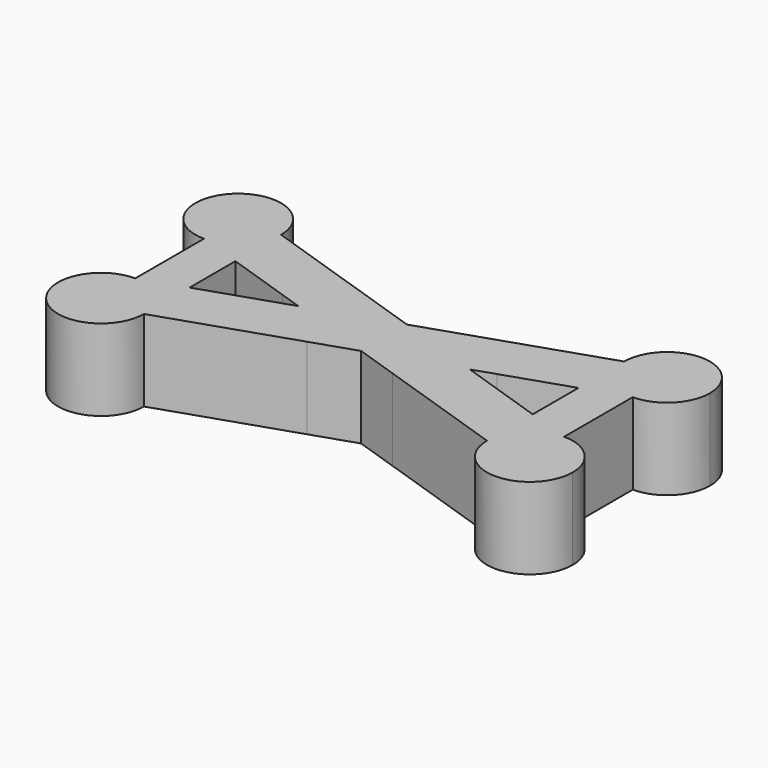
from build123d import *

# Parameters (mm, degrees)
F1_DEPTH = 19
F3_DEPTH = 10


with BuildPart() as f1:
    # F0 (on Top) → F1 (new body)
    with BuildSketch(Plane.XY):
        with BuildLine():
            Line((-50, 20), (-40, 20))
            ThreePointArc((-40, 20), (-57.0710678119, 27.0710678119), (-50, 10))
            Line((-50, 10), (-50, 20))
        make_face()
        with BuildLine():
            ThreePointArc((60, 20), (50, 30), (40, 20))
            Line((40, 20), (50, 20))
            Line((50, 20), (50, 10))
            ThreePointArc((50, 10), (57.0710678119, 12.9289321881), (60, 20))
        make_face()
        with BuildLine():
            Line((-50, -20), (-50, -10))
            ThreePointArc((-50, -10), (-57.0710678119, -27.0710678119), (-40, -20))
            Line((-40, -20), (-50, -20))
        make_face()
        with BuildLine():
            Line((50, -20), (40, -20))
            ThreePointArc((40, -20), (50, -30), (60, -20))
            ThreePointArc((60, -20), (57.0710678119, -12.9289321881), (50, -10))
            Line((50, -10), (50, -20))
        make_face()
        Polygon((50, -10), (40, -20), (50, -20), align=None)
        with BuildLine():
            ThreePointArc((50, -10), (42.9289321881, -12.9289321881), (40, -20))
            Line((40, -20), (50, -10))
        make_face()
        Polygon((50, 20), (40, 20), (50, 10), align=None)
        with BuildLine():
            Line((50, 10), (40, 20))
            ThreePointArc((40, 20), (42.9289321881, 12.9289321881), (50, 10))
        make_face()
        with BuildLine():
            ThreePointArc((-50, 10), (-42.9289321881, 12.9289321881), (-40, 20))
            Line((-40, 20), (-50, 20))
            Line((-50, 20), (-50, 10))
        make_face()
        with BuildLine():
            ThreePointArc((-40, -20), (-42.9289321881, -12.9289321881), (-50, -10))
            Line((-50, -10), (-50, -20))
            Line((-50, -20), (-40, -20))
        make_face()
        Polygon((-40, 0), (-40, 6.6666666667), (-50, 10), (-50, 0), align=None)
        Polygon((-40, -6.6666666667), (-40, 0), (-50, 0), (-50, -10), align=None)
        with BuildLine():
            Line((-40, 6.6666666667), (-40, 20))
            ThreePointArc((-40, 20), (-42.9289321881, 12.9289321881), (-50, 10))
            Line((-50, 10), (-40, 6.6666666667))
        make_face()
        with BuildLine():
            Line((-40, -20), (-40, -6.6666666667))
            Line((-40, -6.6666666667), (-50, -10))
            ThreePointArc((-50, -10), (-42.9289321881, -12.9289321881), (-40, -20))
        make_face()
        with BuildLine():
            ThreePointArc((50, 10), (42.9289321881, 12.9289321881), (40, 20))
            Line((40, 20), (40, 6.6666666667))
            Line((40, 6.6666666667), (50, 10))
        make_face()
        with BuildLine():
            Line((50, -10), (40, -6.6666666667))
            Line((40, -6.6666666667), (40, -20))
            ThreePointArc((40, -20), (42.9289321881, -12.9289321881), (50, -10))
        make_face()
        Polygon((50, 0), (40, 0), (40, -6.6666666667), (50, -10), align=None)
        Polygon((50, 0), (50, 10), (40, 6.6666666667), (40, 0), align=None)
        Polygon((-25, 1.6666666667), (-25, 10), (-10, 10), (-40, 20), (-40, 6.6666666667), align=None)
        Polygon((40, 20), (10, 10), (25, 10), (25, 1.6666666667), (40, 6.6666666667), align=None)
        Polygon((20, 0), (0, 6.6666666667), (0, 0), align=None)
        Polygon((0, 0), (0, 6.6666666667), (-20, 0), align=None)
        Polygon((-25, -10), (-25, -1.6666666667), (-40, -6.6666666667), (-40, -20), (-10, -10), align=None)
        Polygon((40, -6.6666666667), (25, -1.6666666667), (25, -10), (10, -10), (40, -20), align=None)
        Polygon((20, 0), (0, 0), (0, -6.6666666667), align=None)
        Polygon((0, 0), (-20, 0), (0, -6.6666666667), align=None)
        Polygon((25, -1.6666666667), (20, 0), (0, -6.6666666667), (10, -10), (25, -10), align=None)
        Polygon((10, 10), (0, 6.6666666667), (20, 0), (25, 1.6666666667), (25, 10), align=None)
        Polygon((-10, 10), (-25, 10), (-25, 1.6666666667), (-20, 0), (0, 6.6666666667), align=None)
        Polygon((0, -6.6666666667), (-20, 0), (-25, -1.6666666667), (-25, -10), (-10, -10), align=None)
    extrude(amount=F1_DEPTH)

    # F2 (on Top) → F3 (cut)
    with BuildSketch(Plane.XY):
        with BuildLine():
            Line((-45, -20), (-50, -20))
            Line((-50, -20), (-50, -15))
            ThreePointArc((-50, -15), (-53.5355339059, -23.5355339059), (-45, -20))
        make_face()
        with BuildLine():
            Line((-50, -15), (-50, -20))
            Line((-50, -20), (-45, -20))
            ThreePointArc((-45, -20), (-46.4644660941, -16.4644660941), (-50, -15))
        make_face()
        with BuildLine():
            Line((-50, 20), (-50, 15))
            ThreePointArc((-50, 15), (-46.4644660941, 16.4644660941), (-45, 20))
            Line((-45, 20), (-50, 20))
        make_face()
        with BuildLine():
            ThreePointArc((-45, 20), (-53.5355339059, 23.5355339059), (-50, 15))
            Line((-50, 15), (-50, 20))
            Line((-50, 20), (-45, 20))
        make_face()
        with BuildLine():
            ThreePointArc((50, -15), (46.4644660941, -16.4644660941), (45, -20))
            Line((45, -20), (50, -20))
            Line((50, -20), (50, -15))
        make_face()
        with BuildLine():
            Line((50, -20), (45, -20))
            ThreePointArc((45, -20), (50, -25), (55, -20))
            ThreePointArc((55, -20), (53.5355339059, -16.4644660941), (50, -15))
            Line((50, -15), (50, -20))
        make_face()
        with BuildLine():
            Line((50, 20), (50, 15))
            ThreePointArc((50, 15), (53.5355339059, 16.4644660941), (55, 20))
            ThreePointArc((55, 20), (50, 25), (45, 20))
            Line((45, 20), (50, 20))
        make_face()
        with BuildLine():
            ThreePointArc((45, 20), (46.4644660941, 16.4644660941), (50, 15))
            Line((50, 15), (50, 20))
            Line((50, 20), (45, 20))
        make_face()
    extrude(amount=F3_DEPTH, mode=Mode.SUBTRACT)


solid = f1.part
